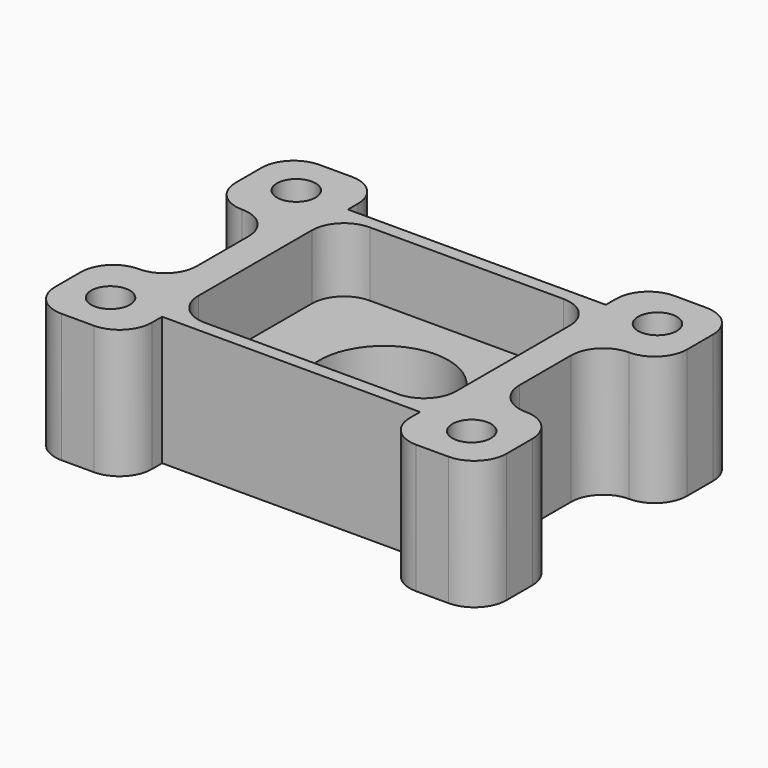
from build123d import *

# Parameters (mm, degrees)
F0_R     = 3
F1_DEPTH = 20
F3_DEPTH = 10
F4_R     = 10
F5_DEPTH = 20


with BuildPart() as f1:
    # F0 (on Top) → F1 (new body)
    with BuildSketch(Plane.XY):
        with BuildLine():
            Line((-16.244364, 25.206749), (-21.244364, 25.206749))
            ThreePointArc((-21.244364, 25.206749), (-24.779898, 23.742283), (-26.244364, 20.206749))
            Line((-26.244364, 20.206749), (-26.244364, 15.206749))
            ThreePointArc((-26.244364, 15.206749), (-24.779898, 11.671215), (-21.244364, 10.206749))
            ThreePointArc((-21.244364, 10.206749), (-17.70883, 8.742283), (-16.244364, 5.206749))
            Line((-16.244364, 5.206749), (-16.244364, -4.793251))
            ThreePointArc((-16.244364, -4.793251), (-17.70883, -8.328785), (-21.244364, -9.793251))
            ThreePointArc((-21.244364, -9.793251), (-24.779898, -11.257717), (-26.244364, -14.793251))
            Line((-26.244364, -14.793251), (-26.244364, -19.793251))
            ThreePointArc((-26.244364, -19.793251), (-24.779898, -23.328785), (-21.244364, -24.793251))
            Line((-21.244364, -24.793251), (-16.244364, -24.793251))
            ThreePointArc((-16.244364, -24.793251), (-12.70883, -23.328785), (-11.244364, -19.793251))
            Line((-11.244364, -19.793251), (-11.244364, -17.793251))
            Line((-11.244364, -17.793251), (28.755636, -17.793251))
            Line((28.755636, -17.793251), (28.755636, -19.793251))
            ThreePointArc((28.755636, -19.793251), (30.220102, -23.328785), (33.755636, -24.793251))
            Line((33.755636, -24.793251), (38.755636, -24.793251))
            ThreePointArc((38.755636, -24.793251), (42.29117, -23.328785), (43.755636, -19.793251))
            Line((43.755636, -19.793251), (43.755636, -14.793251))
            ThreePointArc((43.755636, -14.793251), (42.29117, -11.257717), (38.755636, -9.793251))
            ThreePointArc((38.755636, -9.793251), (35.220102, -8.328785), (33.755636, -4.793251))
            Line((33.755636, -4.793251), (33.755636, 5.206749))
            ThreePointArc((33.755636, 5.206749), (35.220102, 8.742283), (38.755636, 10.206749))
            ThreePointArc((38.755636, 10.206749), (42.29117, 11.671215), (43.755636, 15.206749))
            Line((43.755636, 15.206749), (43.755636, 20.206749))
            ThreePointArc((43.755636, 20.206749), (42.29117, 23.742283), (38.755636, 25.206749))
            Line((38.755636, 25.206749), (33.778906, 25.229911))
            ThreePointArc((33.778906, 25.229911), (30.228339, 23.773717), (28.755636, 20.229966))
            Line((28.755636, 20.229966), (28.755636, 18.206749))
            Line((28.755636, 18.206749), (-11.244364, 18.206749))
            Line((-11.244364, 18.206749), (-11.244364, 20.206749))
            ThreePointArc((-11.244364, 20.206749), (-12.70883, 23.742283), (-16.244364, 25.206749))
        make_face()
        with Locations((-19.244364, -17.793251)):
            Circle(F0_R, mode=Mode.SUBTRACT)
        with Locations((36.755636, -17.793251)):
            Circle(F0_R, mode=Mode.SUBTRACT)
        with Locations((-19.244364, 18.206749)):
            Circle(F0_R, mode=Mode.SUBTRACT)
        with Locations((36.755636, 18.206749)):
            Circle(F0_R, mode=Mode.SUBTRACT)
    extrude(amount=F1_DEPTH)

    # F2 (on face) → F3 (cut)
    with BuildSketch(Plane.XY.offset(20)):
        with BuildLine():
            Line((23.755636, 16.206749), (-6.244364, 16.206749))
            ThreePointArc((-6.244364, 16.206749), (-9.779898, 14.742283), (-11.244364, 11.206749))
            Line((-11.244364, 11.206749), (-11.244364, -10.793251))
            ThreePointArc((-11.244364, -10.793251), (-9.779898, -14.328785), (-6.244364, -15.793251))
            Line((-6.244364, -15.793251), (23.755636, -15.793251))
            ThreePointArc((23.755636, -15.793251), (27.29117, -14.328785), (28.755636, -10.793251))
            Line((28.755636, -10.793251), (28.755636, 11.206749))
            ThreePointArc((28.755636, 11.206749), (27.29117, 14.742283), (23.755636, 16.206749))
        make_face()
    extrude(amount=-F3_DEPTH, mode=Mode.SUBTRACT)

    # F4 (on face) → F5 (cut)
    with BuildSketch(Plane.XY.offset(10)):
        with Locations((8.755636, 0.206749)):
            Circle(F4_R)
    extrude(amount=-F5_DEPTH, mode=Mode.SUBTRACT)


solid = f1.part
